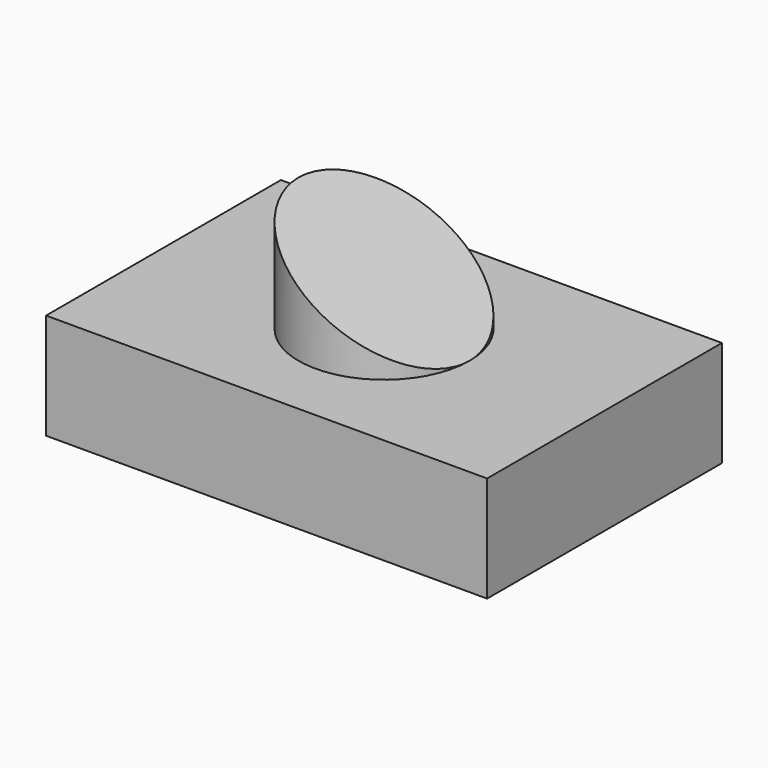
from build123d import *

# Parameters (mm, degrees)
F0_W          = 105.8753505349
F0_H          = 70.4643428326
F1_DEPTH      = 25.4
F2_R          = 20.5218866045
F3_DEPTH      = 25.4
F5_DEPTH      = 35.2331714163
F5_DEPTH_BACK = 35.2331714163


with BuildPart() as f1:
    # F0 (on Top) → F1 (new body)
    with BuildSketch(Plane.XY):
        Rectangle(F0_W, F0_H)
    extrude(amount=F1_DEPTH)

    # F2 (on face) → F3 (join)
    with BuildSketch(Plane.XY.offset(25.4)):
        Circle(F2_R)
    extrude(amount=F3_DEPTH)

    # F4 (on Front) → F5 (cut, two sides)
    with BuildSketch(Plane.XZ) as f5_sk:
        Polygon((20.5218866045, 50.8), (-20.5218866045, 50.8), (20.5218866045, 25.4), align=None)
    extrude(amount=-F5_DEPTH, mode=Mode.SUBTRACT)
    extrude(f5_sk.sketch, amount=F5_DEPTH_BACK, mode=Mode.SUBTRACT)


solid = f1.part
